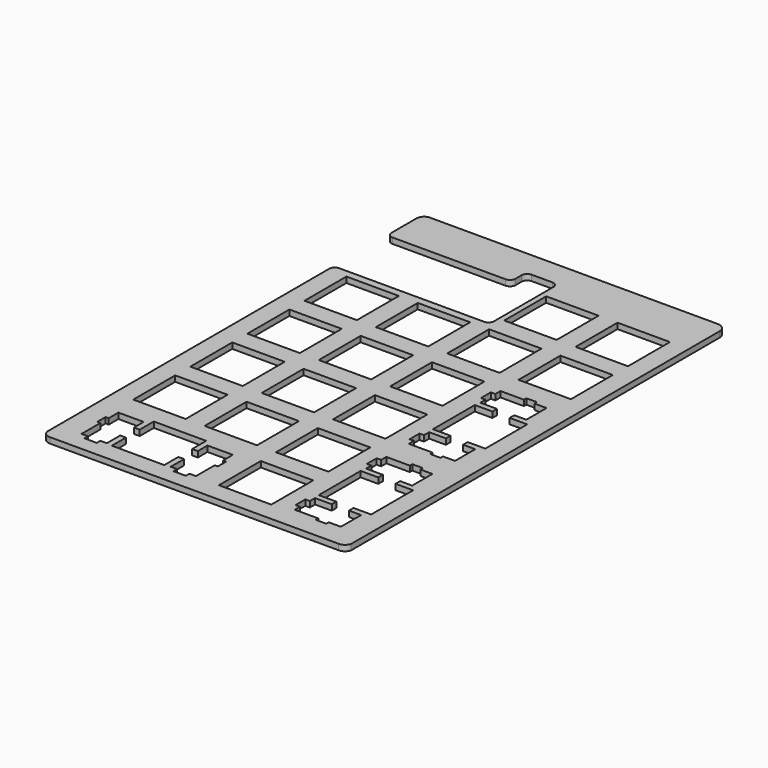
from build123d import *

# Parameters (mm, degrees)
PAD_DEPTH       = 1.524
POCKET_DEPTH    = 1.524
SKETCH020_W     = 13.9993
SKETCH020_H     = 13.9993
POCKET001_DEPTH = 1.524
SKETCH018_W     = 13.9993
SKETCH018_H     = 13.9994
POCKET002_DEPTH = 5
SKETCH017_W     = 13.99955
SKETCH017_H     = 13.9994
POCKET003_DEPTH = 5
SKETCH016_W     = 13.9993
SKETCH016_H     = 13.9994
POCKET004_DEPTH = 5
POCKET005_DEPTH = 5
SKETCH001_W     = 13.9993
SKETCH001_H     = 13.99946
POCKET006_DEPTH = 5
SKETCH002_W     = 13.9993
SKETCH002_H     = 14.0007
POCKET007_DEPTH = 5
SKETCH003_W     = 13.99955
SKETCH003_H     = 13.9993
POCKET008_DEPTH = 5
POCKET009_DEPTH = 5
SKETCH005_W     = 13.9993
SKETCH005_H     = 14.0007
POCKET010_DEPTH = 5
SKETCH006_W     = 13.9993
SKETCH006_H     = 14.0007
POCKET011_DEPTH = 5
SKETCH007_W     = 13.99955
SKETCH007_H     = 14.0007
POCKET012_DEPTH = 5
SKETCH014_W     = 13.9993
SKETCH014_H     = 14.0007
POCKET013_DEPTH = 5
SKETCH013_W     = 13.99955
SKETCH013_H     = 14.0007
POCKET014_DEPTH = 5
SKETCH012_W     = 13.9993
SKETCH012_H     = 13.9993
POCKET015_DEPTH = 5
SKETCH011_W     = 13.9993
SKETCH011_H     = 13.9993
POCKET016_DEPTH = 5
SKETCH010_W     = 13.9993
SKETCH010_H     = 13.9993
POCKET017_DEPTH = 5
COPYSKETCH_W    = 13.9993
COPYSKETCH_H    = 13.9993
POCKET019_DEPTH = 5
SKETCH009_W     = 43.412838
SKETCH009_H     = 17.787065
POCKET020_DEPTH = 5
COPYSKETCH022_W = 8.5
COPYSKETCH022_H = 5
POCKET021_DEPTH = 5
FILLET_R        = 1.5


with BuildPart() as part:
    # Sketch008 → Pad (new body)
    with BuildSketch(Plane.XY):
        with BuildLine():
            ThreePointArc((7.5, 9), (8.064748, 7.564748), (9.5, 7))
            Line((9.5, 7), (86.65, 7))
            ThreePointArc((86.65, 7), (87.950105, 7.450254), (88.693278, 8.608139))
            Line((88.693278, 8.608139), (88.693278, 131.518139))
            ThreePointArc((88.693278, 131.518139), (87.992718, 133.20944), (86.301417, 133.91))
            Line((86.301417, 133.91), (9.732025, 133.91))
            ThreePointArc((9.732025, 133.91), (8.169338, 133.408494), (7.5, 131.91))
            Line((7.5, 131.91), (7.5, 9))
        make_face()
    extrude(amount=PAD_DEPTH)

    # Sketch019 → Pocket (cut)
    with BuildSketch(Plane.XY):
        Polygon((76.150575, 43.84985), (69.880275, 43.84985), (69.880275, 42.12445), (68.680175, 42.12445), (68.680175, 38.82545), (69.880275, 38.82545), (69.880275, 37.10015), (74.350675, 37.10015), (74.350675, 35.57465), (69.650275, 35.57465), (69.650275, 21.57515), (74.350675, 21.57515), (74.350675, 20.04965), (69.880275, 20.04965), (69.880275, 18.3244), (68.680175, 18.3244), (68.680175, 15.02536), (69.880275, 15.02536), (69.880275, 13.30007), (76.150575, 13.30007), (76.150575, 12.47462), (78.950575, 12.47462), (78.950575, 13.30007), (82.180575, 13.30007), (82.180575, 20.04965), (78.950575, 20.04965), (78.950575, 21.57515), (83.649575, 21.57515), (83.649575, 35.57465), (78.950575, 35.57465), (78.950575, 37.10015), (82.180575, 37.10015), (82.180575, 43.84985), (78.950575, 43.84985), (78.950575, 44.67525), (76.150575, 44.67525), align=None)
    extrude(amount=POCKET_DEPTH, mode=Mode.SUBTRACT)

    # Sketch020 → Pocket001 (cut)
    with BuildSketch(Plane.XY):
        with Locations((57.599925, 95.25)):
            Rectangle(SKETCH020_W, SKETCH020_H)
    extrude(amount=POCKET001_DEPTH, mode=Mode.SUBTRACT)

    # Sketch018 → Pocket002 (cut)
    with BuildSketch(Plane.XY):
        with Locations((57.599925, 38.09985)):
            Rectangle(SKETCH018_W, SKETCH018_H)
    extrude(amount=POCKET002_DEPTH, mode=Mode.SUBTRACT)

    # Sketch017 → Pocket003 (cut)
    with BuildSketch(Plane.XY):
        with Locations((19.5, 38.09985)):
            Rectangle(SKETCH017_W, SKETCH017_H)
    extrude(amount=POCKET003_DEPTH, mode=Mode.SUBTRACT)

    # Sketch016 → Pocket004 (cut)
    with BuildSketch(Plane.XY):
        with Locations((38.549925, 38.09985)):
            Rectangle(SKETCH016_W, SKETCH016_H)
    extrude(amount=POCKET004_DEPTH, mode=Mode.SUBTRACT)

    # Sketch015 → Pocket005 (cut)
    with BuildSketch(Plane.XY):
        Polygon((76.150575, 82.77525), (76.150575, 81.95115), (69.880275, 81.95115), (69.880275, 80.22605), (68.680175, 80.22605), (68.680175, 76.92545), (69.880275, 76.92545), (69.880275, 75.20005), (74.350675, 75.20005), (74.350675, 73.67605), (69.650275, 73.67605), (69.650275, 59.67535), (74.350675, 59.67535), (74.350675, 58.15095), (69.880275, 58.15095), (69.880275, 56.42585), (68.680175, 56.42585), (68.680175, 53.12525), (69.880275, 53.12525), (69.880275, 51.40165), (76.150575, 51.40165), (76.150575, 50.57615), (78.950575, 50.57615), (78.950575, 51.40165), (82.180575, 51.40165), (82.180575, 58.15095), (78.950575, 58.15095), (78.950575, 59.67535), (83.649575, 59.67535), (83.649575, 73.67605), (78.950575, 73.67605), (78.950575, 75.20005), (82.180575, 75.20005), (82.180575, 81.95115), (78.950575, 81.95115), (78.950575, 82.77525), align=None)
    extrude(amount=POCKET005_DEPTH, mode=Mode.SUBTRACT)

    # Sketch001 → Pocket006 (cut)
    with BuildSketch(Plane.XY):
        with Locations((57.599925, 19.04992)):
            Rectangle(SKETCH001_W, SKETCH001_H)
    extrude(amount=POCKET006_DEPTH, mode=Mode.SUBTRACT)

    # Sketch002 → Pocket007 (cut)
    with BuildSketch(Plane.XY):
        with Locations((38.549925, 76.2007)):
            Rectangle(SKETCH002_W, SKETCH002_H)
    extrude(amount=POCKET007_DEPTH, mode=Mode.SUBTRACT)

    # Sketch003 → Pocket008 (cut)
    with BuildSketch(Plane.XY):
        with Locations((19.5, 95.25)):
            Rectangle(SKETCH003_W, SKETCH003_H)
    extrude(amount=POCKET008_DEPTH, mode=Mode.SUBTRACT)

    # Sketch004 → Pocket009 (cut)
    with BuildSketch(Plane.XY):
        Polygon((36.024675, 26.04965), (22.025275, 26.04965), (22.025275, 21.34915), (20.499775, 21.34915), (20.499775, 24.57935), (13.750125, 24.57935), (13.750125, 21.34915), (12.924665, 21.34915), (12.924665, 18.55039), (13.750125, 18.55039), (13.750125, 12.28032), (15.475415, 12.28032), (15.475415, 11.08005), (18.774425, 11.08005), (18.774425, 12.28032), (20.499775, 12.28032), (20.499775, 16.75066), (22.025275, 16.75066), (22.025275, 12.05019), (36.024675, 12.05019), (36.024675, 16.75066), (37.550175, 16.75066), (37.550175, 12.28032), (39.275475, 12.28032), (39.275475, 11.08005), (42.574575, 11.08005), (42.574575, 12.28032), (44.299875, 12.28032), (44.299875, 18.55039), (45.125275, 18.55039), (45.125275, 21.34915), (44.299875, 21.34915), (44.299875, 24.57935), (37.550175, 24.57935), (37.550175, 21.34915), (36.024675, 21.34915), align=None)
    extrude(amount=POCKET009_DEPTH, mode=Mode.SUBTRACT)

    # Sketch005 → Pocket010 (cut)
    with BuildSketch(Plane.XY):
        with Locations((38.549925, 57.1507)):
            Rectangle(SKETCH005_W, SKETCH005_H)
    extrude(amount=POCKET010_DEPTH, mode=Mode.SUBTRACT)

    # Sketch006 → Pocket011 (cut)
    with BuildSketch(Plane.XY):
        with Locations((57.599925, 57.1507)):
            Rectangle(SKETCH006_W, SKETCH006_H)
    extrude(amount=POCKET011_DEPTH, mode=Mode.SUBTRACT)

    # Sketch007 → Pocket012 (cut)
    with BuildSketch(Plane.XY):
        with Locations((19.5, 57.1507)):
            Rectangle(SKETCH007_W, SKETCH007_H)
    extrude(amount=POCKET012_DEPTH, mode=Mode.SUBTRACT)

    # Sketch014 → Pocket013 (cut)
    with BuildSketch(Plane.XY):
        with Locations((57.599925, 76.2007)):
            Rectangle(SKETCH014_W, SKETCH014_H)
    extrude(amount=POCKET013_DEPTH, mode=Mode.SUBTRACT)

    # Sketch013 → Pocket014 (cut)
    with BuildSketch(Plane.XY):
        with Locations((19.5, 76.2007)):
            Rectangle(SKETCH013_W, SKETCH013_H)
    extrude(amount=POCKET014_DEPTH, mode=Mode.SUBTRACT)

    # Sketch012 → Pocket015 (cut)
    with BuildSketch(Plane.XY):
        with Locations((76.649925, 95.25)):
            Rectangle(SKETCH012_W, SKETCH012_H)
    extrude(amount=POCKET015_DEPTH, mode=Mode.SUBTRACT)

    # Sketch011 → Pocket016 (cut)
    with BuildSketch(Plane.XY):
        with Locations((76.649925, 114.3)):
            Rectangle(SKETCH011_W, SKETCH011_H)
    extrude(amount=POCKET016_DEPTH, mode=Mode.SUBTRACT)

    # Sketch010 → Pocket017 (cut)
    with BuildSketch(Plane.XY):
        with Locations((38.549925, 95.25)):
            Rectangle(SKETCH010_W, SKETCH010_H)
    extrude(amount=POCKET017_DEPTH, mode=Mode.SUBTRACT)

    # CopySketch → Pocket019 (cut)
    with BuildSketch(Plane.XY):
        with Locations((57.599925, 114.3)):
            Rectangle(COPYSKETCH_W, COPYSKETCH_H)
    extrude(amount=POCKET019_DEPTH, mode=Mode.SUBTRACT)

    # Sketch009 → Pocket020 (cut)
    with BuildSketch(Plane.XY):
        with Locations((27.444365, 113.143686)):
            Rectangle(SKETCH009_W, SKETCH009_H)
    extrude(amount=POCKET020_DEPTH, mode=Mode.SUBTRACT)

    # CopySketch022 → Pocket021 (cut)
    with BuildSketch(Plane.XY):
        with Locations((44.900784, 124.537218)):
            Rectangle(COPYSKETCH022_W, COPYSKETCH022_H)
    extrude(amount=POCKET021_DEPTH, mode=Mode.SUBTRACT)

    # Fillet
    fillet_edges = [part.edges().sort_by_distance(p)[0] for p in [
        (40.650784, 122.037218, 0.762),
        (40.650784, 127.037218, 0.762),
        (49.150784, 127.037218, 0.762),
        (7.5, 122.037218, 0.762),
        (7.5, 104.250153, 0.762),
        (49.150784, 104.250153, 0.762),
    ]]
    fillet(fillet_edges, radius=FILLET_R)


solid = part.part
